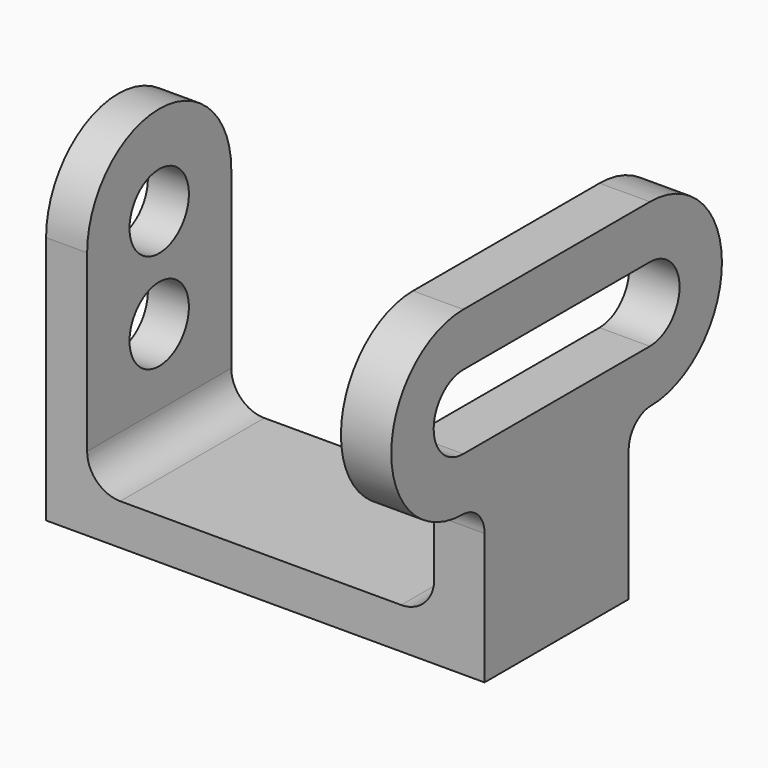
from build123d import *

# Parameters (mm, degrees)
F1_DEPTH = 17.272
F3_DEPTH = 7.874
F5_DEPTH = 9.652
F6_W     = 34.544
F6_H     = 7.112
F7_DEPTH = 9.652
F8_R     = 7.112
F9_DEPTH = 7.874
F10_R    = 6.35
F11_R    = 6.35
F12_R    = 5.334
F13_R    = 5.334


with BuildPart() as f1:
    # F0 (on Front) → F1 (new body, symmetric)
    with BuildSketch(Plane.XZ):
        Polygon((0, 47.752), (0, 0), (84.074, 0), (84.074, 47.752), (74.422, 47.752), (74.422, 7.874), (7.874, 7.874), (7.874, 47.752), align=None)
    extrude(amount=F1_DEPTH, both=True)

    # F2 (on Right) → F3 (join)
    with BuildSketch(Plane.YZ):
        with BuildLine():
            Line((-17.272, 47.752), (17.272, 47.752))
            ThreePointArc((17.272, 47.752), (0, 65.024), (-17.272, 47.752))
        make_face()
    extrude(amount=F3_DEPTH)

    # F4 (on face) → F5 (join)
    with BuildSketch(Plane.YZ.offset(84.074)):
        with BuildLine():
            Line((22.352, 65.024), (-22.352, 65.024))
            ThreePointArc((-22.352, 65.024), (-39.624, 47.752), (-22.352, 30.48))
            Line((-22.352, 30.48), (22.352, 30.48))
            ThreePointArc((22.352, 30.48), (39.624, 47.752), (22.352, 65.024))
        make_face()
        with BuildLine():
            Line((22.352, 40.64), (-22.352, 40.64))
            ThreePointArc((-22.352, 40.64), (-29.464, 47.752), (-22.352, 54.864))
            Line((-22.352, 54.864), (22.352, 54.864))
            ThreePointArc((22.352, 54.864), (29.464, 47.752), (22.352, 40.64))
        make_face(mode=Mode.SUBTRACT)
    extrude(amount=-F5_DEPTH)

    # F6 (on face) → F7 (cut)
    with BuildSketch(Plane.YZ.offset(84.074)):
        with Locations((0, 44.196)):
            Rectangle(F6_W, F6_H)
    extrude(amount=-F7_DEPTH, mode=Mode.SUBTRACT)

    # F8 (on face) → F9 (cut)
    with BuildSketch(Plane(origin=(0, 0, 0), x_dir=(0, -1, 0), z_dir=(-1, 0, 0))):
        with Locations((0, 47.752)):
            Circle(F8_R)
        with Locations((0, 28.702)):
            Circle(F8_R)
    extrude(amount=-F9_DEPTH, mode=Mode.SUBTRACT)

    # F10
    f10_edges = [f1.edges().sort_by_distance(p)[0] for p in [
        (7.874, 0, 7.874),
    ]]
    fillet(f10_edges, radius=F10_R)

    # F11
    f11_edges = [f1.edges().sort_by_distance(p)[0] for p in [
        (74.422, 0, 7.874),
    ]]
    fillet(f11_edges, radius=F11_R)

    # F12
    f12_edges = [f1.edges().sort_by_distance(p)[0] for p in [
        (79.248, -17.272, 30.48),
    ]]
    fillet(f12_edges, radius=F12_R)

    # F13
    f13_edges = [f1.edges().sort_by_distance(p)[0] for p in [
        (79.248, 17.272, 30.48),
    ]]
    fillet(f13_edges, radius=F13_R)


solid = f1.part
